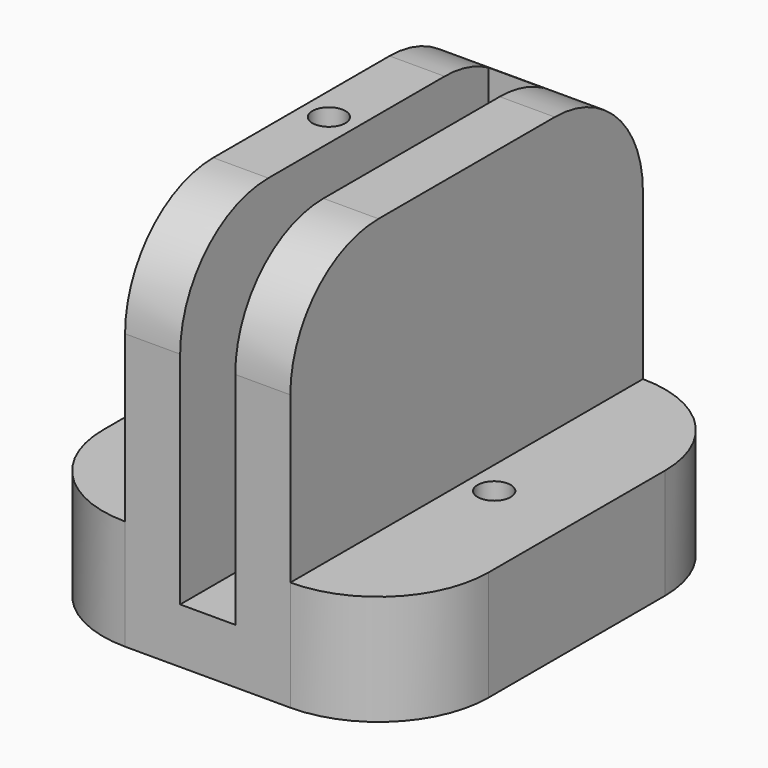
from build123d import *

# Parameters (mm, degrees)
CYLINDER001_R     = 1.5
CYLINDER001_DEPTH = 40
CYLINDER_R        = 1.5
CYLINDER_DEPTH    = 40
BOX003_W          = 10
BOX003_H          = 40
BOX003_DEPTH      = 25
BOX002_W          = 5
BOX002_H          = 35
BOX002_DEPTH      = 35
BOX001_W          = 10
BOX001_H          = 40
BOX001_DEPTH      = 25
BOX_W             = 35
BOX_H             = 40
BOX_DEPTH         = 35
FILLET_R          = 10


with BuildPart() as cylinder001:
    # Cylinder001 → Cylinder001 (new body)
    with BuildSketch(Plane(origin=(27.5, 20, 0), x_dir=(1, 0, 0), z_dir=(0, 0, 1))):
        Circle(CYLINDER001_R)
    extrude(amount=CYLINDER001_DEPTH)


with BuildPart() as cylinder:
    # Cylinder → Cylinder (new body)
    with BuildSketch(Plane(origin=(12.5, 20, 0), x_dir=(1, 0, 0), z_dir=(0, 0, 1))):
        Circle(CYLINDER_R)
    extrude(amount=CYLINDER_DEPTH)


with BuildPart() as cube003:
    # Box003 → Box003 (new body)
    with BuildSketch(Plane(origin=(25, 0, 10), x_dir=(1, 0, 0), z_dir=(0, 0, 1))):
        with Locations((5, 20)):
            Rectangle(BOX003_W, BOX003_H)
    extrude(amount=BOX003_DEPTH)


with BuildPart() as cube002:
    # Box002 → Box002 (new body)
    with BuildSketch(Plane(origin=(15, 0, 5), x_dir=(1, 0, 0), z_dir=(0, 0, 1))):
        with Locations((2.5, 17.5)):
            Rectangle(BOX002_W, BOX002_H)
    extrude(amount=BOX002_DEPTH)


with BuildPart() as cube001:
    # Box001 → Box001 (new body)
    with BuildSketch(Plane.XY.offset(10)):
        with Locations((5, 20)):
            Rectangle(BOX001_W, BOX001_H)
    extrude(amount=BOX001_DEPTH)


with BuildPart() as cut004:
    # Box → Box (new body)
    with BuildSketch(Plane.XY):
        with Locations((17.5, 20)):
            Rectangle(BOX_W, BOX_H)
    extrude(amount=BOX_DEPTH)

    # Fillet
    fillet_edges = [cut004.edges().sort_by_distance(p)[0] for p in [
        (0, 0, 17.5),
        (0, 40, 17.5),
        (35, 0, 17.5),
        (35, 40, 17.5),
        (17.5, 0, 35),
        (17.5, 40, 35),
    ]]
    fillet(fillet_edges, radius=FILLET_R)

    # Cut: cut Cube001
    add(cube001.part, mode=Mode.SUBTRACT)

    # Cut001: cut Cube002
    add(cube002.part, mode=Mode.SUBTRACT)

    # Cut002: cut Cube003
    add(cube003.part, mode=Mode.SUBTRACT)

    # Cut003: cut Cylinder
    add(cylinder.part, mode=Mode.SUBTRACT)

    # Cut004: cut Cylinder001
    add(cylinder001.part, mode=Mode.SUBTRACT)


solid = cut004.part
